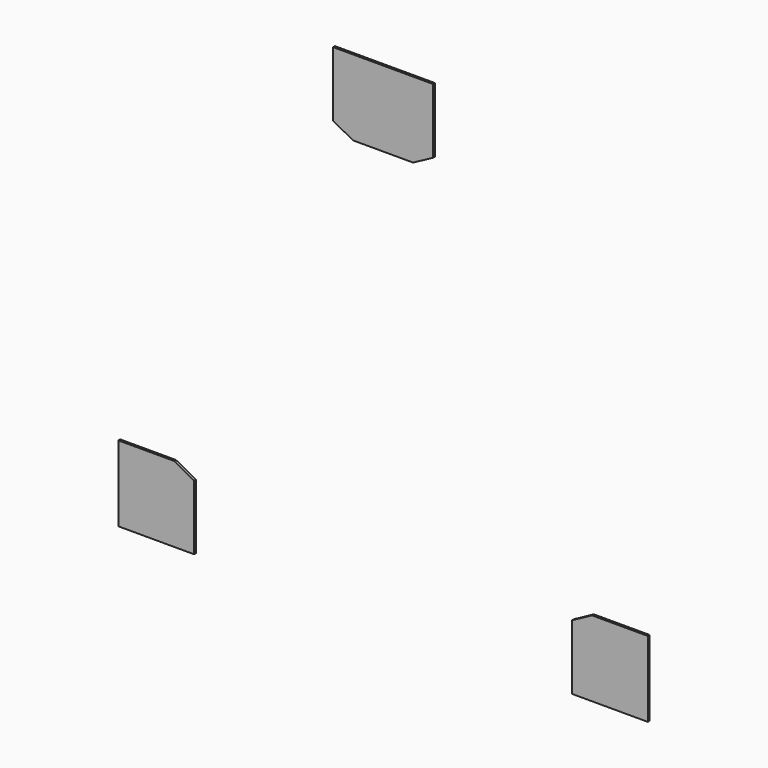
from build123d import *

# Parameters (mm, degrees)
EXTRUDE_DEPTH = 6


with BuildPart() as part:
    # Sketch → Extrude (new body)
    with BuildSketch(Plane.XZ):
        Polygon((0, 0), (200.27202, 0), (200.27202, 171.554011), (147.443754, 200), (0, 200), align=None)
        Polygon((620.701583, 1100), (779.298417, 1100), (832.126683, 1128.445989), (832.126683, 1300), (567.873317, 1300), (567.873317, 1128.445989), align=None)
        Polygon((1199.72798, 0), (1400, 0), (1400, 200), (1252.556246, 200), (1199.72798, 171.554011), align=None)
    extrude(amount=EXTRUDE_DEPTH)


solid = part.part
